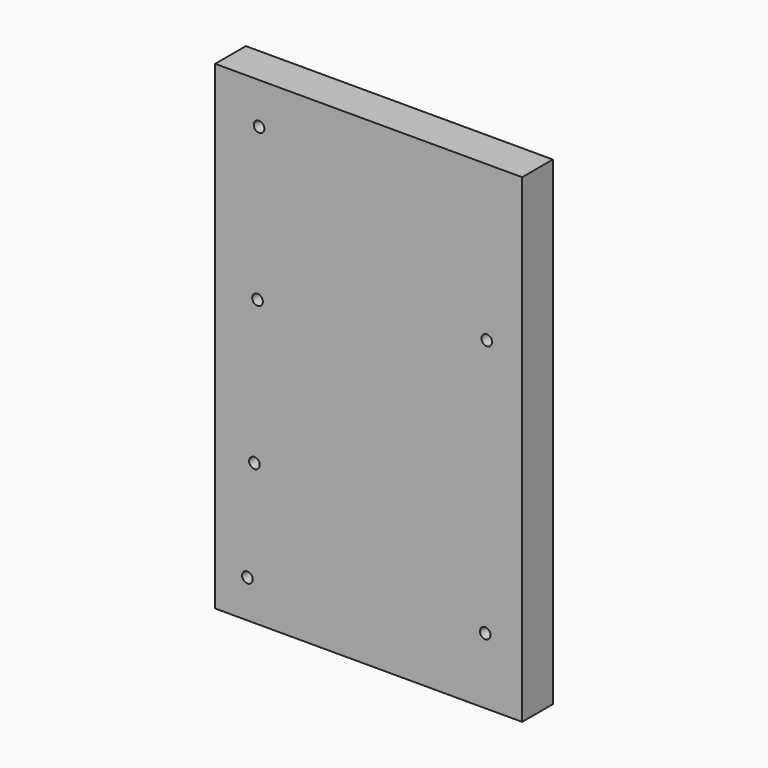
from build123d import *

# Parameters (mm, degrees)
F0_W     = 143.9559608698
F0_H     = 224.8725891113
F1_DEPTH = 18
F3_D     = 5
F3_DEPTH = 12
F3_TIP   = 1.5021515476


with BuildPart() as f1:
    # F0 (on Front) → F1 (new body)
    with BuildSketch(Plane.XZ):
        Rectangle(F0_W, F0_H)
    extrude(amount=F1_DEPTH)

    # F3
    with Locations(Plane.XZ.offset(18)):
        with Locations((55.4013177752, 39.753023535), (-52.1100945771, 21.4727465063), (-51.381200552, 93.1144654751), (-53.5678751767, -46.3704913855), (-56.847885251, -94.6952626109), (54.6724274755, -81.4532861114)):
            Hole(F3_D / 2, depth=F3_DEPTH)
            with Locations((0, 0, -(F3_DEPTH + F3_TIP / 2))):  # 118° drill point
                Cone(0, F3_D / 2, F3_TIP, mode=Mode.SUBTRACT)


solid = f1.part
